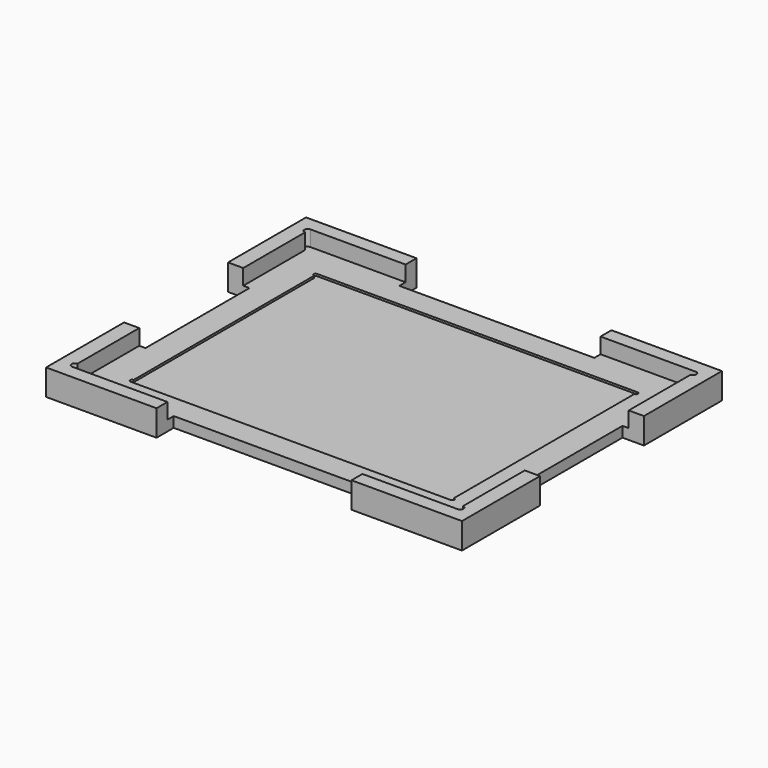
from build123d import *

# Parameters (mm, degrees)
F0_W     = 320
F0_H     = 250
F1_DEPTH = 20
F3_DEPTH = 12
F5_DEPTH = 1.6
F6_W     = 33
F6_H     = 100
F6_W_2   = 150
F6_H_2   = 33
F7_DEPTH = 20.001


with BuildPart() as f1:
    # F0 (on Top) → F1 (new body)
    with BuildSketch(Plane.XY):
        Rectangle(F0_W, F0_H)
    extrude(amount=F1_DEPTH)

    # F2 (on face) → F3 (cut)
    with BuildSketch(Plane.XY.offset(20)):
        with BuildLine():
            ThreePointArc((148.3, 109.5), (145.8, 112), (148.3, 114.5))
            Line((148.3, 114.5), (-148.3, 114.5))
            ThreePointArc((-148.3, 114.5), (-146.532233047, 113.767766953), (-145.8, 112))
            ThreePointArc((-145.8, 112), (-146.532233047, 110.232233047), (-148.3, 109.5))
            Line((-148.3, 109.5), (-148.3, -109.5))
            ThreePointArc((-148.3, -109.5), (-146.532233047, -110.232233047), (-145.8, -112))
            ThreePointArc((-145.8, -112), (-146.532233047, -113.767766953), (-148.3, -114.5))
            Line((-148.3, -114.5), (148.3, -114.5))
            ThreePointArc((148.3, -114.5), (145.8, -112), (148.3, -109.5))
            Line((148.3, -109.5), (148.3, 109.5))
        make_face()
        with BuildLine():
            ThreePointArc((150.8, 112), (150.067766953, 113.767766953), (148.3, 114.5))
            Line((148.3, 114.5), (148.3, 109.5))
            ThreePointArc((148.3, 109.5), (150.067766953, 110.232233047), (150.8, 112))
        make_face()
        with BuildLine():
            Line((148.3, 109.5), (148.3, 114.5))
            ThreePointArc((148.3, 114.5), (145.8, 112), (148.3, 109.5))
        make_face()
        with BuildLine():
            ThreePointArc((-145.8, 112), (-146.532233047, 113.767766953), (-148.3, 114.5))
            Line((-148.3, 114.5), (-148.3, 109.5))
            ThreePointArc((-148.3, 109.5), (-146.532233047, 110.232233047), (-145.8, 112))
        make_face()
        with BuildLine():
            Line((-148.3, 109.5), (-148.3, 114.5))
            ThreePointArc((-148.3, 114.5), (-150.8, 112), (-148.3, 109.5))
        make_face()
        with BuildLine():
            ThreePointArc((150.8, -112), (150.067766953, -110.232233047), (148.3, -109.5))
            Line((148.3, -109.5), (148.3, -114.5))
            ThreePointArc((148.3, -114.5), (150.067766953, -113.767766953), (150.8, -112))
        make_face()
        with BuildLine():
            Line((148.3, -114.5), (148.3, -109.5))
            ThreePointArc((148.3, -109.5), (145.8, -112), (148.3, -114.5))
        make_face()
        with BuildLine():
            ThreePointArc((-145.8, -112), (-146.532233047, -110.232233047), (-148.3, -109.5))
            Line((-148.3, -109.5), (-148.3, -114.5))
            ThreePointArc((-148.3, -114.5), (-146.532233047, -113.767766953), (-145.8, -112))
        make_face()
        with BuildLine():
            Line((-148.3, -114.5), (-148.3, -109.5))
            ThreePointArc((-148.3, -109.5), (-150.8, -112), (-148.3, -114.5))
        make_face()
    extrude(amount=-F3_DEPTH, mode=Mode.SUBTRACT)

    # F4 (on face) → F5 (cut)
    with BuildSketch(Plane.XY.offset(8)):
        with BuildLine():
            ThreePointArc((123.2, 86.8), (121.7, 88.3), (123.2, 89.8))
            Line((123.2, 89.8), (-123.2, 89.8))
            ThreePointArc((-123.2, 89.8), (-122.1393398282, 89.3606601718), (-121.7, 88.3))
            ThreePointArc((-121.7, 88.3), (-122.1393398282, 87.2393398282), (-123.2, 86.8))
            Line((-123.2, 86.8), (-123.2, -86.8))
            ThreePointArc((-123.2, -86.8), (-122.1393398282, -87.2393398282), (-121.7, -88.3))
            ThreePointArc((-121.7, -88.3), (-122.1393398282, -89.3606601718), (-123.2, -89.8))
            Line((-123.2, -89.8), (123.2, -89.8))
            ThreePointArc((123.2, -89.8), (121.7, -88.3), (123.2, -86.8))
            Line((123.2, -86.8), (123.2, 86.8))
        make_face()
        with BuildLine():
            ThreePointArc((124.7, 88.3), (124.2606601718, 89.3606601718), (123.2, 89.8))
            Line((123.2, 89.8), (123.2, 86.8))
            ThreePointArc((123.2, 86.8), (124.2606601718, 87.2393398282), (124.7, 88.3))
        make_face()
        with BuildLine():
            Line((123.2, 86.8), (123.2, 89.8))
            ThreePointArc((123.2, 89.8), (121.7, 88.3), (123.2, 86.8))
        make_face()
        with BuildLine():
            ThreePointArc((-121.7, 88.3), (-122.1393398282, 89.3606601718), (-123.2, 89.8))
            Line((-123.2, 89.8), (-123.2, 86.8))
            ThreePointArc((-123.2, 86.8), (-122.1393398282, 87.2393398282), (-121.7, 88.3))
        make_face()
        with BuildLine():
            Line((-123.2, 86.8), (-123.2, 89.8))
            ThreePointArc((-123.2, 89.8), (-124.7, 88.3), (-123.2, 86.8))
        make_face()
        with BuildLine():
            ThreePointArc((124.7, -88.3), (124.2606601718, -87.2393398282), (123.2, -86.8))
            Line((123.2, -86.8), (123.2, -89.8))
            ThreePointArc((123.2, -89.8), (124.2606601718, -89.3606601718), (124.7, -88.3))
        make_face()
        with BuildLine():
            Line((123.2, -89.8), (123.2, -86.8))
            ThreePointArc((123.2, -86.8), (121.7, -88.3), (123.2, -89.8))
        make_face()
        with BuildLine():
            ThreePointArc((-121.7, -88.3), (-122.1393398282, -87.2393398282), (-123.2, -86.8))
            Line((-123.2, -86.8), (-123.2, -89.8))
            ThreePointArc((-123.2, -89.8), (-122.1393398282, -89.3606601718), (-121.7, -88.3))
        make_face()
        with BuildLine():
            Line((-123.2, -89.8), (-123.2, -86.8))
            ThreePointArc((-123.2, -86.8), (-124.7, -88.3), (-123.2, -89.8))
        make_face()
    extrude(amount=-F5_DEPTH, mode=Mode.SUBTRACT)

    # F6 (on face) → F7 (cut, through all)
    with BuildSketch(Plane.XY.offset(20)):
        with Locations((-160, 0)):
            Rectangle(F6_W, F6_H)
        with Locations((0, 125)):
            Rectangle(F6_W_2, F6_H_2)
        with Locations((160, 0)):
            Rectangle(F6_W, F6_H)
        with Locations((0, -125)):
            Rectangle(F6_W_2, F6_H_2)
    extrude(amount=-F7_DEPTH, mode=Mode.SUBTRACT)


solid = f1.part
